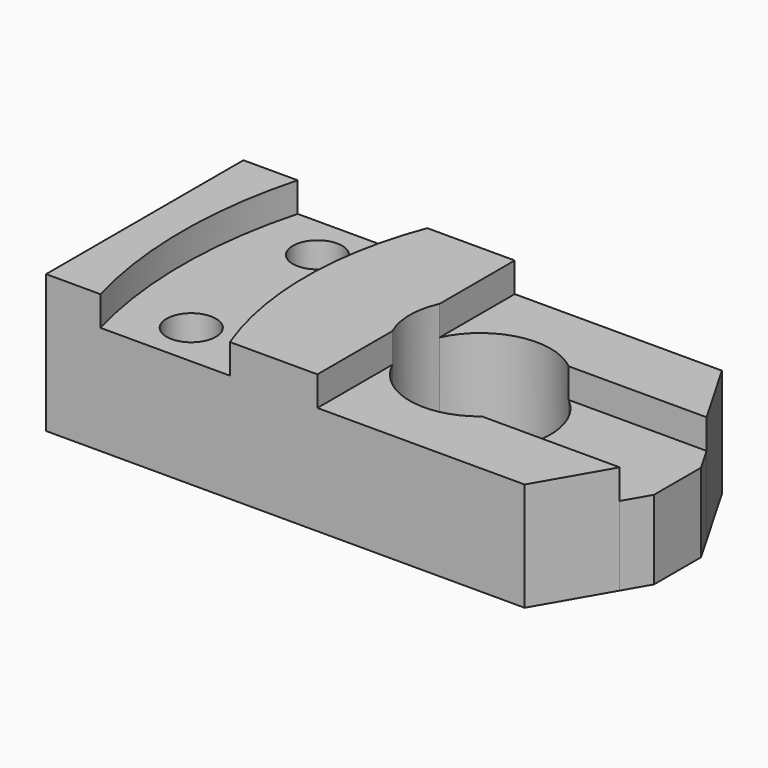
from build123d import *

# Parameters (mm, degrees)
F0_R     = 5
F1_DEPTH = 22
F2_DEPTH = 28
F3_DEPTH = 22
F4_DEPTH = 16


with BuildPart() as f1:
    # F0 (on Top) → F1 (new body)
    with BuildSketch(Plane.XY):
        with BuildLine():
            ThreePointArc((11, 50), (7.651514, 25), (11, 0))
            Line((11, 0), (37.26803, 0))
            ThreePointArc((37.26803, 0), (32.651514, 25), (37.26803, 50))
            Line((37.26803, 50), (11, 50))
        make_face()
        with Locations((22.227637, 9)):
            Circle(F0_R, mode=Mode.SUBTRACT)
        with Locations((22.227637, 41)):
            Circle(F0_R, mode=Mode.SUBTRACT)
    extrude(amount=F1_DEPTH)

    # F0 (on Top) → F2 (join)
    with BuildSketch(Plane.XY):
        with BuildLine():
            Line((0, 50), (0, 0))
            Line((0, 0), (11, 0))
            ThreePointArc((11, 0), (7.651514, 25), (11, 50))
            Line((11, 50), (0, 50))
        make_face()
        with BuildLine():
            ThreePointArc((37.26803, 50), (32.651514, 25), (37.26803, 0))
            Line((37.26803, 0), (55, 0))
            Line((55, 0), (55, 19.042652))
            ThreePointArc((55, 19.042652), (53.7, 25), (55, 30.957348))
            Line((55, 30.957348), (55, 50))
            Line((55, 50), (37.26803, 50))
        make_face()
    extrude(amount=F2_DEPTH)

    # F0 (on Top) → F3 (join)
    with BuildSketch(Plane.XY):
        with BuildLine():
            Line((97, 50), (55, 50))
            Line((55, 50), (55, 30.957348))
            ThreePointArc((55, 30.957348), (64.823961, 38.94284), (77.137286, 36))
            Line((77.137286, 36), (105.082904, 36))
            Line((105.082904, 36), (97, 50))
        make_face()
        with BuildLine():
            Line((55, 19.042652), (55, 0))
            Line((55, 0), (97, 0))
            Line((97, 0), (105.082904, 14))
            Line((105.082904, 14), (77.137286, 14))
            ThreePointArc((77.137286, 14), (64.823961, 11.05716), (55, 19.042652))
        make_face()
    extrude(amount=F3_DEPTH)

    # F0 (on Top) → F4 (join)
    with BuildSketch(Plane.XY):
        with BuildLine():
            ThreePointArc((77.137286, 36), (82.3, 25), (77.137286, 14))
            Line((77.137286, 14), (105.082904, 14))
            Line((105.082904, 14), (108, 19.052559))
            Line((108, 19.052559), (108, 30.947441))
            Line((108, 30.947441), (105.082904, 36))
            Line((105.082904, 36), (77.137286, 36))
        make_face()
    extrude(amount=F4_DEPTH)


solid = f1.part
